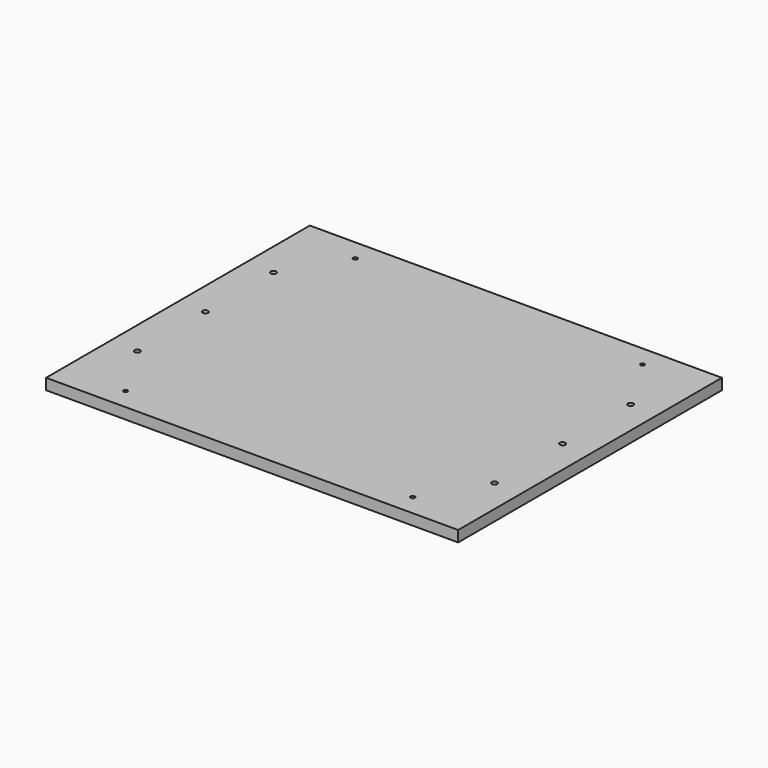
from build123d import *

# Parameters (mm, degrees)
F0_W     = 300
F0_H     = 240
F0_R     = 1.5
F0_R_2   = 2
F1_DEPTH = 8


with BuildPart() as f1:
    # F0 (on Top) → F1 (new body)
    with BuildSketch(Plane.XY):
        Rectangle(F0_W, F0_H)
        with Locations((-104.5, -104.5)):
            Circle(F0_R, mode=Mode.SUBTRACT)
        with Locations((-130, -62)):
            Circle(F0_R_2, mode=Mode.SUBTRACT)
        with Locations((104.5, -104.5)):
            Circle(F0_R, mode=Mode.SUBTRACT)
        with Locations((130, -62)):
            Circle(F0_R_2, mode=Mode.SUBTRACT)
        with Locations((-130, 0)):
            Circle(F0_R_2, mode=Mode.SUBTRACT)
        with Locations((-130, 62)):
            Circle(F0_R_2, mode=Mode.SUBTRACT)
        with Locations((-104.5, 104.5)):
            Circle(F0_R, mode=Mode.SUBTRACT)
        with Locations((130, 0)):
            Circle(F0_R_2, mode=Mode.SUBTRACT)
        with Locations((130, 62)):
            Circle(F0_R_2, mode=Mode.SUBTRACT)
        with Locations((104.5, 104.5)):
            Circle(F0_R, mode=Mode.SUBTRACT)
    extrude(amount=F1_DEPTH)


solid = f1.part
